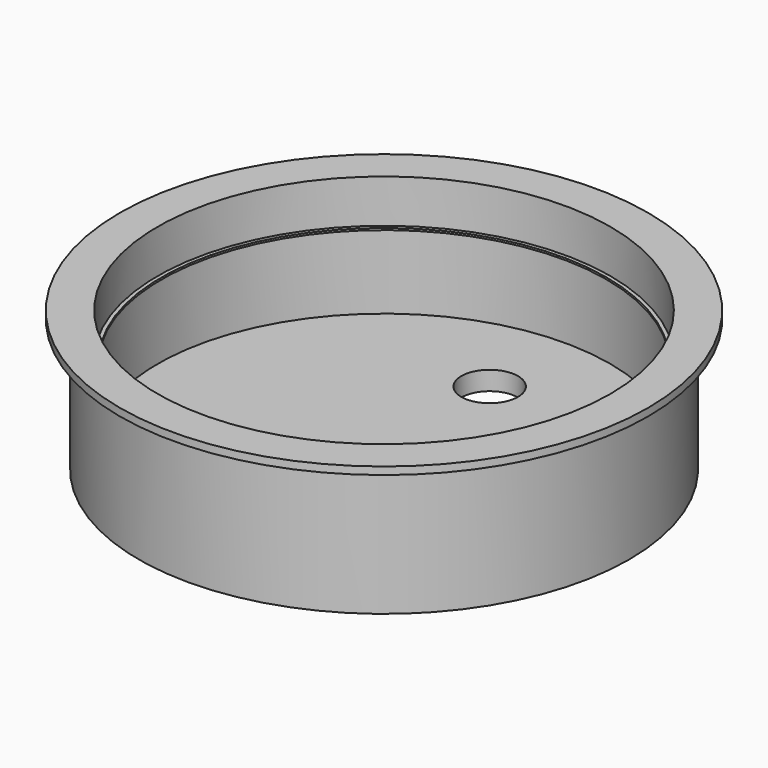
from build123d import *

# Parameters (mm, degrees)
F0_R      = 70
F1_DEPTH  = 2
F2_R      = 65
F3_DEPTH  = 35
F4_R      = 60
F5_DEPTH  = 32
F6_R      = 7.5
F7_DEPTH  = 5.001
F8_R      = 2.5
F9_DEPTH  = 2
F11_R     = 62.2
F11_R_2   = 59
F12_DEPTH = 0.5


with BuildPart() as f1:
    # F0 (on Top) → F1 (new body)
    with BuildSketch(Plane.XY):
        Circle(F0_R)
    extrude(amount=-F1_DEPTH)

    # F2 (on face) → F3 (join)
    with BuildSketch(Plane(origin=(0, 0, -2), x_dir=(1, 0, 0), z_dir=(0, 0, -1))):
        Circle(F2_R)
    extrude(amount=F3_DEPTH)

    # F4 (on face) → F5 (cut)
    with BuildSketch(Plane.XY):
        Circle(F4_R)
    extrude(amount=-F5_DEPTH, mode=Mode.SUBTRACT)

    # F6 (on face) → F7 (cut, through all)
    with BuildSketch(Plane.XY.offset(-32)):
        with Locations((0, -35)):
            Circle(F6_R)
        with Locations((0, 35)):
            Circle(F6_R)
    extrude(amount=-F7_DEPTH, mode=Mode.SUBTRACT)

    # F8 (on face) → F9 (join)
    with BuildSketch(Plane(origin=(0, 0, -37), x_dir=(1, 0, 0), z_dir=(0, 0, -1))):
        with Locations((-30, 14.127)):
            Circle(F8_R)
        with Locations((-30, -14.12747)):
            Circle(F8_R)
        with Locations((30, 14.127)):
            Circle(F8_R)
        with Locations((30, -14.12747)):
            Circle(F8_R)
    extrude(amount=F9_DEPTH)

    # F11 (on offset) → F12 (join)
    with BuildSketch(Plane.XY.offset(-12)):
        Circle(F11_R)
        Circle(F11_R_2, mode=Mode.SUBTRACT)
    extrude(amount=F12_DEPTH)


solid = f1.part
